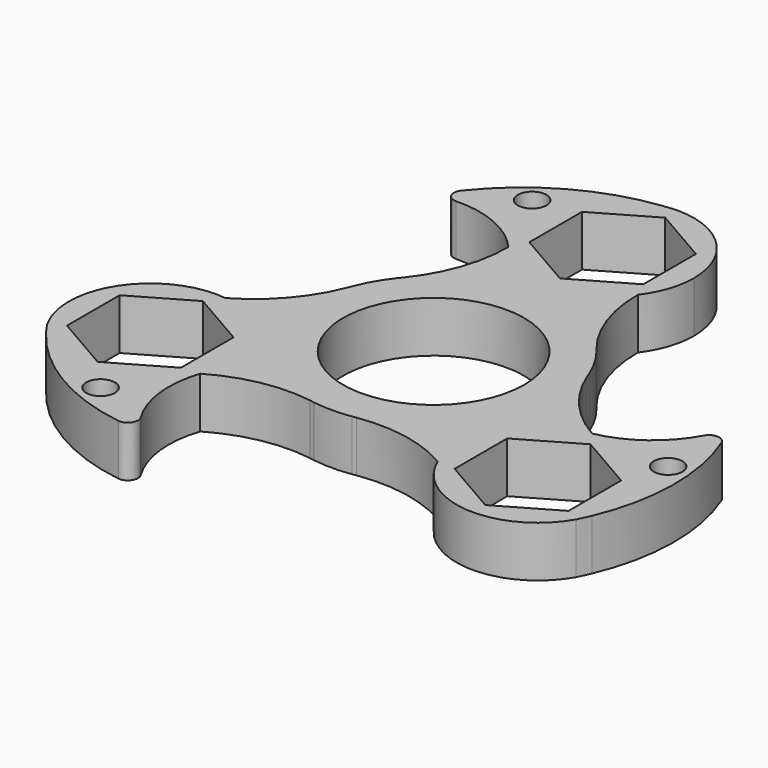
from build123d import *

# Parameters (mm, degrees)
F0_R     = 1.78928
F0_R_2   = 11.303
F1_DEPTH = 6.35
F2_R     = 1.27


with BuildPart() as f1:
    # F0 (on Top) → F1 (new body)
    with BuildSketch(Plane.XY):
        with BuildLine():
            ThreePointArc((12.077109, 10.303352), (9.095838, 15.699831), (8.080235, 21.780827))
            ThreePointArc((8.080235, 21.780827), (0, 17.78), (-8.080235, 21.780827))
            ThreePointArc((-8.080235, 21.780827), (-9.074817, 15.723861), (-12.038361, 10.348599))
            ThreePointArc((-12.038361, 10.348599), (0.029785, 15.874972), (12.077109, 10.303352))
        make_face()
        with BuildLine():
            ThreePointArc((10.16, 27.94), (7.184205, 35.124205), (0, 38.1))
            ThreePointArc((0, 38.1), (-0.87291, 38.039306), (-1.743288, 37.949323))
            ThreePointArc((-1.743288, 37.949323), (-9.459411, 31.647444), (-8.080235, 21.780827))
            ThreePointArc((-8.080235, 21.780827), (0, 17.78), (8.080235, 21.780827))
            ThreePointArc((8.080235, 21.780827), (9.626027, 24.689583), (10.16, 27.94))
        make_face()
        Polygon((-7.112, 32.046115), (0, 36.15223), (7.112, 32.046115), (7.112, 23.833885), (0, 19.72777), (-7.112, 23.833885), align=None, mode=Mode.SUBTRACT)
        with BuildLine():
            ThreePointArc((-8.080235, 21.780827), (-9.459411, 31.647444), (-1.743288, 37.949323))
            ThreePointArc((-1.743288, 37.949323), (-12.66546, 34.030722), (-20.801573, 25.757091))
            ThreePointArc((-20.801573, 25.757091), (-13.884792, 25.548137), (-8.080235, 21.780827))
        make_face()
        with Locations((-12.453423, 30.944496)):
            Circle(F0_R, mode=Mode.SUBTRACT)
        with BuildLine():
            ThreePointArc((2.348846, -15.700272), (2.616295, -15.653525), (2.88441, -15.610759))
            ThreePointArc((2.88441, -15.610759), (12.202574, -10.154448), (15.875, 0))
            ThreePointArc((15.875, 0), (15.649988, 2.663364), (14.98133, 5.251227))
            ThreePointArc((14.98133, 5.251227), (14.873941, 5.532726), (14.771257, 5.815976))
            ThreePointArc((14.771257, 5.815976), (13.748153, 7.9375), (12.422412, 9.884296))
            ThreePointArc((12.422412, 9.884296), (12.248203, 10.092541), (12.077109, 10.303352))
            ThreePointArc((12.077109, 10.303352), (0.029785, 15.874972), (-12.038361, 10.348599))
            ThreePointArc((-12.038361, 10.348599), (-12.228452, 10.114848), (-12.422412, 9.884296))
            ThreePointArc((-12.422412, 9.884296), (-13.748153, 7.9375), (-14.771257, 5.815976))
            ThreePointArc((-14.771257, 5.815976), (-14.864498, 5.560985), (-14.961519, 5.307407))
            ThreePointArc((-14.961519, 5.307407), (-13.763022, -7.911691), (-2.942969, -15.599826))
            ThreePointArc((-2.942969, -15.599826), (-2.645489, -15.647574), (-2.348846, -15.700272))
            ThreePointArc((-2.348846, -15.700272), (0, -15.875), (2.348846, -15.700272))
        make_face()
        Circle(F0_R_2, mode=Mode.SUBTRACT)
        with BuildLine():
            ThreePointArc((-22.902867, -3.892725), (-32.653508, -8.33894), (-32.995568, -19.05))
            ThreePointArc((-32.995568, -19.05), (-32.50655, -19.775615), (-31.993434, -20.484393))
            ThreePointArc((-31.993434, -20.484393), (-22.677785, -24.015812), (-14.822632, -17.888102))
            ThreePointArc((-14.822632, -17.888102), (-14.235158, -15.96807), (-14.03675, -13.97))
            ThreePointArc((-14.03675, -13.97), (-16.568793, -7.258825), (-22.902867, -3.892725))
        make_face()
        Polygon((-17.08475, -9.863885), (-17.08475, -18.076115), (-24.19675, -22.18223), (-31.30875, -18.076115), (-31.30875, -9.863885), (-24.19675, -5.75777), align=None, mode=Mode.SUBTRACT)
        with BuildLine():
            ThreePointArc((-14.961519, 5.307407), (-18.144371, 0.027311), (-22.902867, -3.892725))
            ThreePointArc((-22.902867, -3.892725), (-16.568793, -7.258825), (-14.03675, -13.97))
            ThreePointArc((-14.03675, -13.97), (-14.235158, -15.96807), (-14.822632, -17.888102))
            ThreePointArc((-14.822632, -17.888102), (-9.079854, -15.720953), (-2.942969, -15.599826))
            ThreePointArc((-2.942969, -15.599826), (-13.763022, -7.911691), (-14.961519, 5.307407))
        make_face()
        with BuildLine():
            ThreePointArc((-14.822632, -17.888102), (-22.677785, -24.015812), (-31.993434, -20.484393))
            ThreePointArc((-31.993434, -20.484393), (-23.13874, -27.983971), (-11.905509, -30.893236))
            ThreePointArc((-11.905509, -30.893236), (-15.182939, -24.798651), (-14.822632, -17.888102))
        make_face()
        with Locations((-20.572009, -26.257229)):
            Circle(F0_R, mode=Mode.SUBTRACT)
        with BuildLine():
            ThreePointArc((2.88441, -15.610759), (9.048534, -15.727142), (14.822632, -17.888102))
            ThreePointArc((14.822632, -17.888102), (15.397932, -8.89), (22.902867, -3.892725))
            ThreePointArc((22.902867, -3.892725), (18.154672, -0.002908), (14.98133, 5.251227))
            ThreePointArc((14.98133, 5.251227), (15.649988, 2.663364), (15.875, 0))
            ThreePointArc((15.875, 0), (12.202574, -10.154448), (2.88441, -15.610759))
        make_face()
        with BuildLine():
            ThreePointArc((14.822632, -17.888102), (23.548488, -24.109298), (32.995568, -19.05))
            ThreePointArc((32.995568, -19.05), (33.37946, -18.263691), (33.736722, -17.46493))
            ThreePointArc((33.736722, -17.46493), (34.200542, -15.744752), (34.35675, -13.97))
            ThreePointArc((34.35675, -13.97), (30.907925, -6.342043), (22.902867, -3.892725))
            ThreePointArc((22.902867, -3.892725), (15.397932, -8.89), (14.822632, -17.888102))
        make_face()
        Polygon((17.08475, -9.863885), (24.19675, -5.75777), (31.30875, -9.863885), (31.30875, -18.076115), (24.19675, -22.18223), (17.08475, -18.076115), align=None, mode=Mode.SUBTRACT)
        with BuildLine():
            ThreePointArc((34.35675, -13.97), (34.200542, -15.744752), (33.736722, -17.46493))
            ThreePointArc((33.736722, -17.46493), (35.8042, -6.046751), (32.707082, 5.136145))
            ThreePointArc((32.707082, 5.136145), (29.067732, -0.749485), (22.902867, -3.892725))
            ThreePointArc((22.902867, -3.892725), (30.907925, -6.342043), (34.35675, -13.97))
        make_face()
        with Locations((33.025431, -4.687268)):
            Circle(F0_R, mode=Mode.SUBTRACT)
    extrude(amount=F1_DEPTH)

    # F2
    f2_edges = [f1.edges().sort_by_distance(p)[0] for p in [
        (-20.801573, 25.757091, 3.175),
        (-11.905509, -30.893236, 3.175),
        (32.707082, 5.136145, 3.175),
    ]]
    fillet(f2_edges, radius=F2_R)


solid = f1.part
